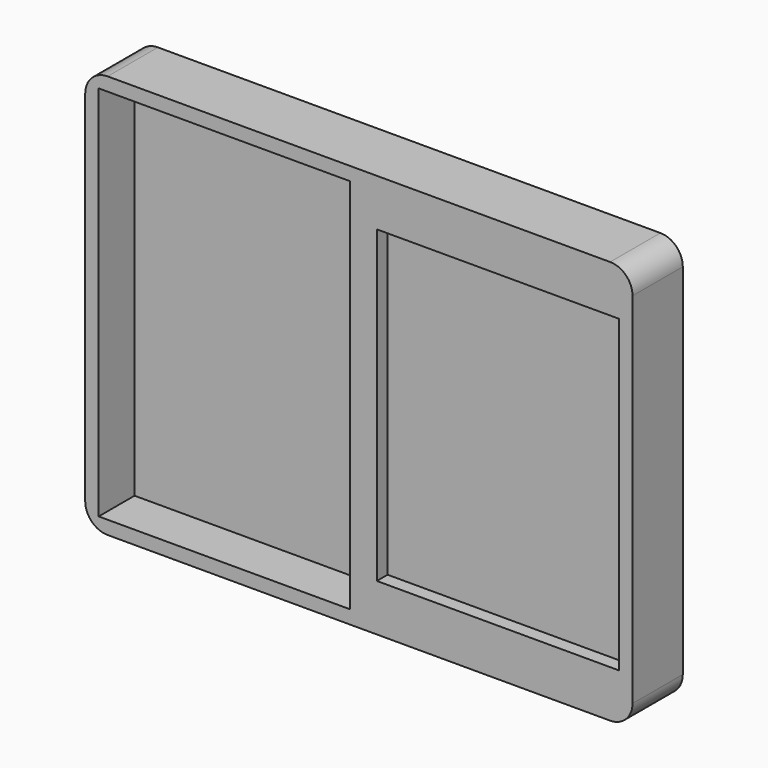
from build123d import *

# Parameters (mm, degrees)
F0_W     = 122
F0_H     = 90
F0_W_2   = 56
F0_H_2   = 84
F0_W_3   = 54
F0_H_3   = 69
F1_DEPTH = 14
F2_DEPTH = 4
F3_DEPTH = 11
F4_R     = 5


with BuildPart() as f1:
    # F0 (on Front) → F1 (new body)
    with BuildSketch(Plane.XZ):
        with Locations((-16.471726, -0.079399)):
            Rectangle(F0_W, F0_H)
        with Locations((-46.471726, -0.079399)):
            Rectangle(F0_W_2, F0_H_2, mode=Mode.SUBTRACT)
        with Locations((14.528274, -0.079399)):
            Rectangle(F0_W_3, F0_H_3, mode=Mode.SUBTRACT)
    extrude(amount=F1_DEPTH)

    # F0 (on Front) → F2 (join)
    with BuildSketch(Plane.XZ):
        with Locations((-46.471726, -0.079399)):
            Rectangle(F0_W_2, F0_H_2)
    extrude(amount=F2_DEPTH)

    # F0 (on Front) → F3 (join)
    with BuildSketch(Plane.XZ):
        with Locations((14.528274, -0.079399)):
            Rectangle(F0_W_3, F0_H_3)
    extrude(amount=F3_DEPTH)

    # F4
    f4_edges = [f1.edges().sort_by_distance(p)[0] for p in [
        (-77.471726, -7, -45.079399),
        (44.528274, -7, -45.079399),
        (44.528274, -7, 44.920601),
        (-77.471726, -7, 44.920601),
    ]]
    fillet(f4_edges, radius=F4_R)


solid = f1.part
